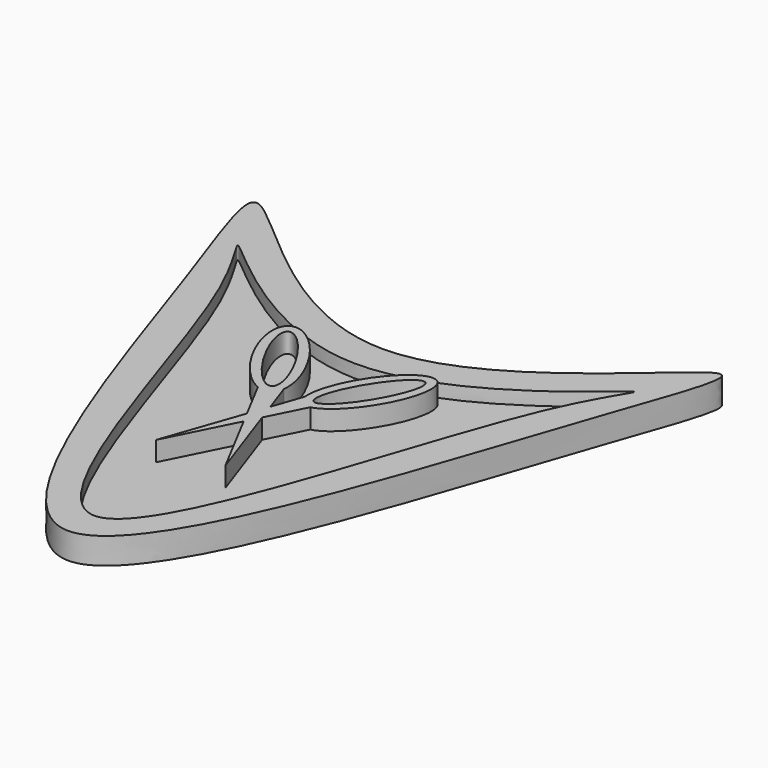
from build123d import *

# Parameters (mm, degrees)
F1_DEPTH = 2.54
F3_DEPTH = 1.27
F5_DEPTH = 1.905


with BuildPart() as f1:
    # F0 (on Top) → F1 (new body)
    with BuildSketch(Plane.XY):
        with BuildLine():
            add(Edge.make_bspline(
                [(-19.05, 0), (-14.0701532741, -14.4708520881), (0, -61.7291479119), (17.9701382761, -1.3717307537), (26.9168084968, 20.5117345686), (0, -11.9593012484), (-26.9168084968, 20.5117345686), (-21.8106419297, 8.0221025329), (-19.05, 0)],
                knots=[0, 0, 0, 0, 0.2146331294, 0.4292662587, 0.548250888, 0.7146331294, 0.8810153707, 1, 1, 1, 1], degree=3))
        make_face()
    extrude(amount=F1_DEPTH)

    # F2 (on face) → F3 (cut)
    with BuildSketch(Plane.XY.offset(2.54)):
        with BuildLine():
            add(Edge.make_bspline(
                [(0, -34.925), (5.5870096117, -34.925), (13.5774615524, -0.409014654), (22.9743111974, 10.5786818437), (0, -11.8944848933), (-22.9743111974, 10.5786818437), (-13.5774615524, -0.409014654), (-5.5870096117, -34.925), (0, -34.925)],
                knots=[0, 0, 0, 0, 0.229854977, 0.3287349181, 0.5, 0.6712650819, 0.770145023, 1, 1, 1, 1], degree=3))
        make_face()
    extrude(amount=-F3_DEPTH, mode=Mode.SUBTRACT)

    # F4 (on face) → F5 (join)
    with BuildSketch(Plane.XY.offset(1.27)):
        with BuildLine():
            add(Edge.make_bspline(
                [(-2.7604398351, -11.7002175369), (-2.026794593, -11.9981053773), (-1.5632608685, -11.7211891461)],
                knots=[5.7956589448, 5.7956589448, 5.7956589448, 6.2831853072, 6.2831853072, 6.2831853072], degree=2, weights=[1, 0.9704365811, 1]))
            Line((-2.7604398351, -11.7002175369), (-0.6933951368, -15.6135149228))
            Line((-0.6933951368, -15.6135149228), (-0.004519263, -13.6330145131))
            Line((-0.004519263, -13.6330145131), (-1.0215033634, -10.7170484016))
            add(Edge.make_bspline(
                [(-1.5632608685, -11.7211891461), (-1.1186388628, -11.4555708241), (-1.0215033634, -10.7170484016)],
                knots=[0, 0, 0, 0.4683694508, 0.4683694508, 0.4683694508], degree=2, weights=[1, 0.9727038491, 1]))
        make_face()
        with BuildLine():
            add(Edge.make_bspline(
                [(-1.0215033634, -10.7170484016), (-0.5209817509, -6.9115762902), (-4.6230819243, -3.2900395173), (-8.7251820978, 0.3314972557), (-7.5558643192, -4.9481915994), (-6.3865465405, -10.2278804545), (-2.7604398351, -11.7002175369)],
                knots=[0.4683694508, 0.4683694508, 0.4683694508, 2.2441326154, 2.2441326154, 4.0198957801, 4.0198957801, 5.7956589448, 5.7956589448, 5.7956589448], degree=2, weights=[1, 0.6310567756, 1, 0.6310567756, 1, 0.6310567756, 1]))
            add(Edge.make_bspline(
                [(-2.7604398351, -11.7002175369), (-2.026794593, -11.9981053773), (-1.5632608685, -11.7211891461)],
                knots=[5.7956589448, 5.7956589448, 5.7956589448, 6.2831853072, 6.2831853072, 6.2831853072], degree=2, weights=[1, 0.9704365811, 1]))
            add(Edge.make_bspline(
                [(-1.5632608685, -11.7211891461), (-1.1186388628, -11.4555708241), (-1.0215033634, -10.7170484016)],
                knots=[0, 0, 0, 0.4683694508, 0.4683694508, 0.4683694508], degree=2, weights=[1, 0.9727038491, 1]))
        make_face()
        with BuildLine():
            add(Edge.make_bspline(
                [(-2.0459327833, -10.9369151487), (-0.2034579525, -9.8429457525), (-4.5736491036, -4.5811660804), (-8.9438402546, 0.6806135916), (-6.4161239344, -5.6751354766), (-3.8884076141, -12.0308845449), (-2.0459327833, -10.9369151487)],
                knots=[0, 0, 0, 2.0943951024, 2.0943951024, 4.1887902048, 4.1887902048, 6.2831853072, 6.2831853072, 6.2831853072], degree=2, weights=[1, 0.5, 1, 0.5, 1, 0.5, 1]))
        make_face(mode=Mode.SUBTRACT)
        Polygon((-0.004519263, -13.6330145131), (-0.6933951368, -15.6135149228), (-0.0836261949, -16.7679201509), (0.6085322372, -15.3907975488), align=None)
        Polygon((-0.0836261949, -16.7679201509), (-0.6933951368, -15.6135149228), (-3.3675426285, -23.3016201458), align=None)
        Polygon((0.6085322372, -15.3907975488), (-0.0836261949, -16.7679201509), (3.3675426285, -23.3016201458), align=None)
        with BuildLine():
            Line((1.0183631121, -10.6922540074), (-0.004519263, -13.6330145131))
            Line((-0.004519263, -13.6330145131), (0.6085322372, -15.3907975488))
            Line((0.6085322372, -15.3907975488), (2.4067848809, -11.8129832146))
            add(Edge.make_bspline(
                [(1.5632608685, -11.7211891461), (1.9054576797, -11.9256183954), (2.4067848809, -11.8129832146)],
                knots=[0, 0, 0, 0.3631664302, 0.3631664302, 0.3631664302], degree=2, weights=[1, 0.9835590176, 1]))
            add(Edge.make_bspline(
                [(1.0183631121, -10.6922540074), (1.1107797798, -11.4508757879), (1.5632608685, -11.7211891461)],
                knots=[5.8068440318, 5.8068440318, 5.8068440318, 6.2831853072, 6.2831853072, 6.2831853072], degree=2, weights=[1, 0.9717711935, 1]))
        make_face()
        with BuildLine():
            add(Edge.make_bspline(
                [(2.4067848809, -11.8129832146), (5.899509842, -11.028258774), (7.4628268088, -5.3229815437), (9.0261437756, 0.3822956866), (4.7787870889, -3.1564340471), (0.5314304021, -6.6951637808), (1.0183631121, -10.6922540074)],
                knots=[0.3631664302, 0.3631664302, 0.3631664302, 2.1777256307, 2.1777256307, 3.9922848312, 3.9922848312, 5.8068440318, 5.8068440318, 5.8068440318], degree=2, weights=[1, 0.6158912416, 1, 0.6158912416, 1, 0.6158912416, 1]))
            add(Edge.make_bspline(
                [(1.0183631121, -10.6922540074), (1.1107797798, -11.4508757879), (1.5632608685, -11.7211891461)],
                knots=[5.8068440318, 5.8068440318, 5.8068440318, 6.2831853072, 6.2831853072, 6.2831853072], degree=2, weights=[1, 0.9717711935, 1]))
            add(Edge.make_bspline(
                [(1.5632608685, -11.7211891461), (1.9054576797, -11.9256183954), (2.4067848809, -11.8129832146)],
                knots=[0, 0, 0, 0.3631664302, 0.3631664302, 0.3631664302], degree=2, weights=[1, 0.9835590176, 1]))
        make_face()
        with BuildLine():
            add(Edge.make_bspline(
                [(2.0459327833, -10.9369151487), (3.8884076141, -12.0308845449), (6.4161239344, -5.6751354766), (8.9438402546, 0.6806135916), (4.5736491036, -4.5811660804), (0.2034579525, -9.8429457525), (2.0459327833, -10.9369151487)],
                knots=[0, 0, 0, 2.0943951024, 2.0943951024, 4.1887902048, 4.1887902048, 6.2831853072, 6.2831853072, 6.2831853072], degree=2, weights=[1, 0.5, 1, 0.5, 1, 0.5, 1]))
        make_face(mode=Mode.SUBTRACT)
    extrude(amount=F5_DEPTH)


solid = f1.part
